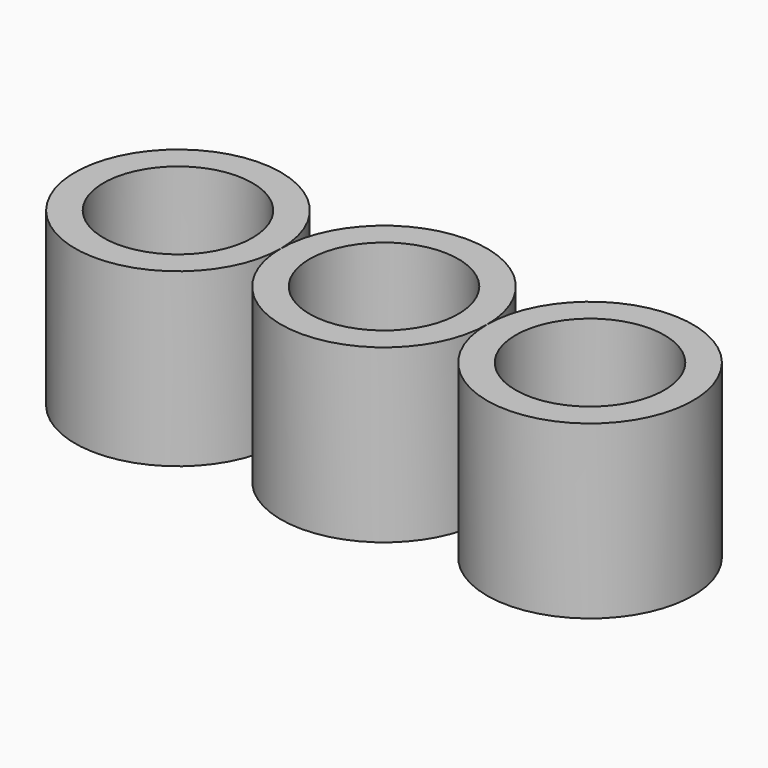
from build123d import *

# Parameters (mm, degrees)
F0_R     = 11.0109
F0_R_2   = 15.24
F1_DEPTH = 25.4


with BuildPart() as f1:
    # F0 (on Top) → F1 (new body)
    with BuildSketch(Plane.XY):
        with BuildLine():
            Line((15.24, 0), (11.0109, 0))
            ThreePointArc((11.0109, 0), (0, -11.0109), (-11.0109, 0))
            Line((-11.0109, 0), (-15.24, 0))
            ThreePointArc((-15.24, 0), (0, -15.24), (15.24, 0))
        make_face()
        with BuildLine():
            ThreePointArc((-11.0109, 0), (0, 11.0109), (11.0109, 0))
            Line((11.0109, 0), (15.24, 0))
            ThreePointArc((15.24, 0), (0, 15.24), (-15.24, 0))
            Line((-15.24, 0), (-11.0109, 0))
        make_face()
        with BuildLine():
            ThreePointArc((41.4909, 0), (30.48, 11.0109), (19.4691, 0))
            ThreePointArc((19.4691, 0), (30.48, -11.0109), (41.4909, 0))
        make_face()
        with Locations((-30.48, 0)):
            Circle(F0_R)
        with Locations((-30.48, 0)):
            Circle(F0_R_2)
        with Locations((-30.48, 0)):
            Circle(F0_R, mode=Mode.SUBTRACT)
        with BuildLine():
            ThreePointArc((45.72, 0), (30.48, 15.24), (15.24, 0))
            ThreePointArc((15.24, 0), (30.48, -15.24), (45.72, 0))
        make_face()
        with BuildLine():
            ThreePointArc((41.4909, 0), (30.48, -11.0109), (19.4691, 0))
            ThreePointArc((19.4691, 0), (30.48, 11.0109), (41.4909, 0))
        make_face(mode=Mode.SUBTRACT)
    extrude(amount=F1_DEPTH)


solid = f1.part
